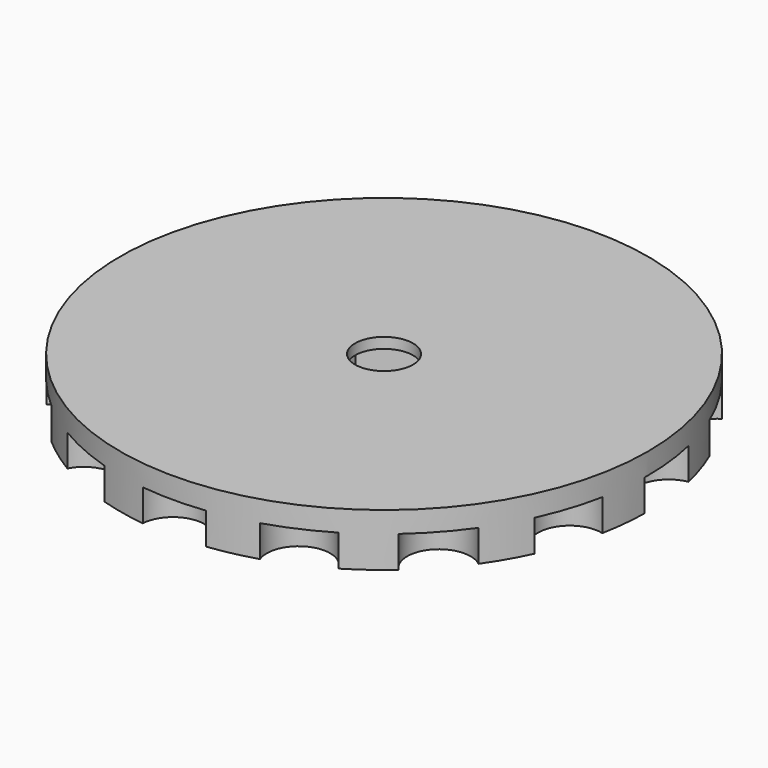
from build123d import *

# Parameters (mm, degrees)
F0_R     = 31.728285
F0_R_2   = 3.478838
F1_DEPTH = 6.35
F3_DEPTH = 5.08
F4_R     = 3.81
F5_DEPTH = 3.81


with BuildPart() as f1:
    # F0 (on Top) → F1 (new body)
    with BuildSketch(Plane.XY):
        Circle(F0_R)
        Circle(F0_R_2, mode=Mode.SUBTRACT)
    extrude(amount=F1_DEPTH)

    # F2 (on Top) → F3 (cut)
    with BuildSketch(Plane.XY):
        Polygon((6.35, -3.666174), (6.35, 3.666174), (0, 7.332348), (-6.35, 3.666174), (-6.35, -3.666174), (0, -7.332348), align=None)
    extrude(amount=F3_DEPTH, mode=Mode.SUBTRACT)

    # F4 (on Top) → F5 (cut)
    with BuildSketch(Plane.XY):
        with Locations((0, -31.728285)):
            Circle(F4_R)
        with Locations((12.905056, -28.98523)):
            Circle(F4_R)
        with Locations((23.578711, -21.230366)):
            Circle(F4_R)
        with Locations((30.175392, -9.804579)):
            Circle(F4_R)
        with Locations((31.554474, 3.316509)):
            Circle(F4_R)
        with Locations((27.477501, 15.864142)):
            Circle(F4_R)
        with Locations((18.649418, 25.668721)):
            Circle(F4_R)
        with Locations((6.596681, 31.034946)):
            Circle(F4_R)
        with Locations((-6.596681, 31.034946)):
            Circle(F4_R)
        with Locations((-18.649418, 25.668721)):
            Circle(F4_R)
        with Locations((-27.477501, 15.864142)):
            Circle(F4_R)
        with Locations((-31.554474, 3.316509)):
            Circle(F4_R)
        with Locations((-30.175392, -9.804579)):
            Circle(F4_R)
        with Locations((-23.578711, -21.230366)):
            Circle(F4_R)
        with Locations((-12.905056, -28.98523)):
            Circle(F4_R)
    extrude(amount=F5_DEPTH, mode=Mode.SUBTRACT)


solid = f1.part
